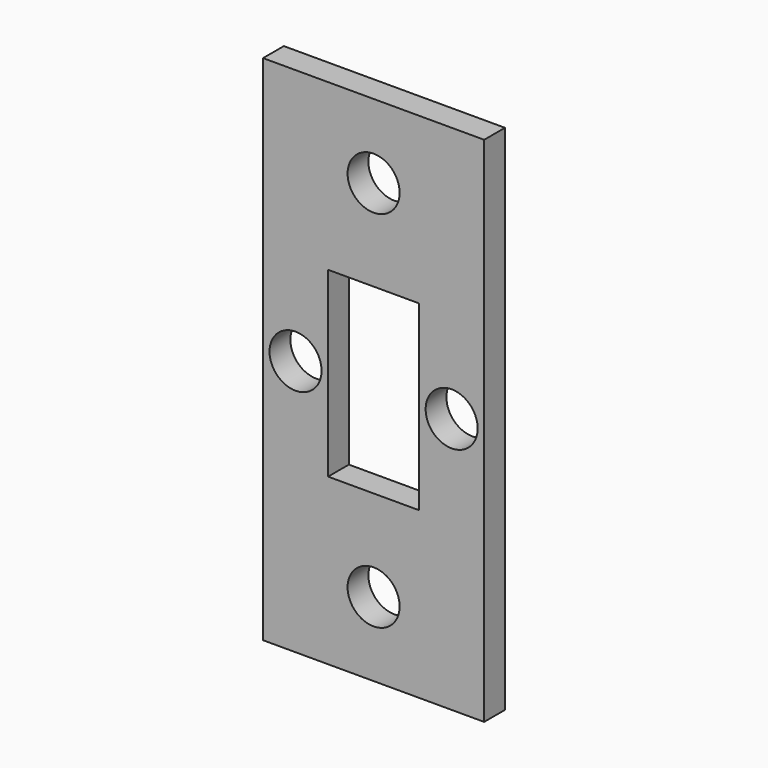
from build123d import *

# Parameters (mm, degrees)
F0_W     = 17
F0_H     = 39.4
F0_W_2   = 7
F0_H_2   = 14
F1_DEPTH = 2
F3_D     = 4
F3_DEPTH = 6


with BuildPart() as f1:
    # F0 (on Front) → F1 (new body)
    with BuildSketch(Plane.XZ):
        Rectangle(F0_W, F0_H)
        Rectangle(F0_W_2, F0_H_2, mode=Mode.SUBTRACT)
    extrude(amount=F1_DEPTH)

    # F3
    with Locations(Plane.XZ.offset(2)):
        with Locations((-6, 0), (6, 0), (0, 14), (0, -14)):
            Hole(F3_D / 2, depth=F3_DEPTH)


solid = f1.part
